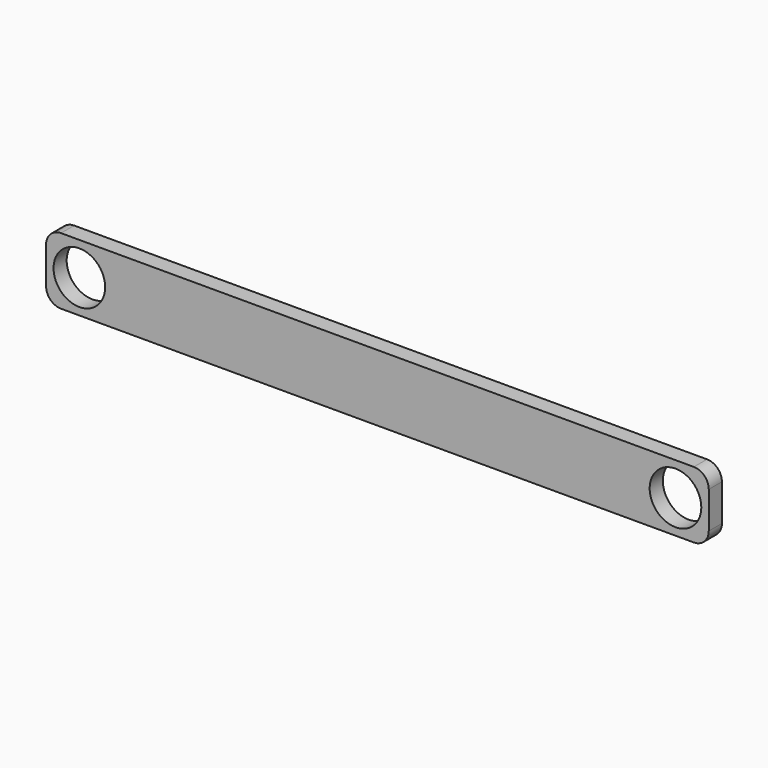
from build123d import *

# Parameters (mm, degrees)
F0_W     = 282.3464
F0_H     = 28.3464
F0_R     = 10.9982
F1_DEPTH = 3.5052
F2_R     = 6.35


with BuildPart() as f1:
    # F0 (on Front) → F1 (new body, symmetric)
    with BuildSketch(Plane.XZ):
        Rectangle(F0_W, F0_H)
        with Locations((-127, 0)):
            Circle(F0_R, mode=Mode.SUBTRACT)
        with Locations((127, 0)):
            Circle(F0_R, mode=Mode.SUBTRACT)
    extrude(amount=F1_DEPTH, both=True)

    # F2
    f2_edges = [f1.edges().sort_by_distance(p)[0] for p in [
        (-141.1732, 0, 14.1732),
        (-141.1732, 0, -14.1732),
        (141.1732, 0, 14.1732),
        (141.1732, 0, -14.1732),
    ]]
    fillet(f2_edges, radius=F2_R)


solid = f1.part
